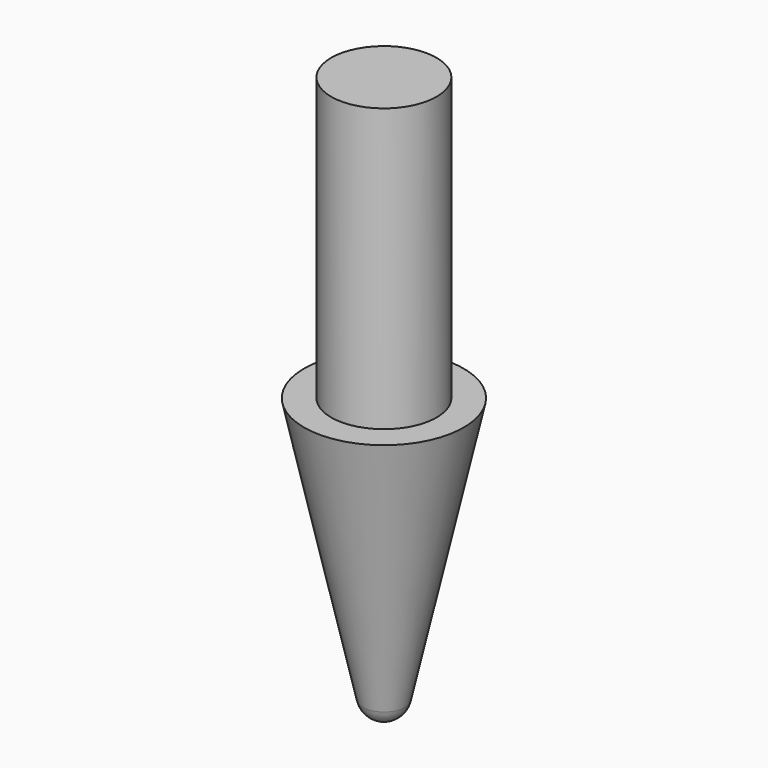
from build123d import *


with BuildPart() as part:
    # Sketch128 → Revolution005 (revolve)
    with BuildSketch(Plane.XZ):
        with BuildLine():
            Line((0, 0), (-2.8, 0))
            Line((-2.8, 0), (-2.8, -15))
            Line((-2.8, -15), (-4.24, -15))
            Line((-4.24, -15), (-1.122881, -29.098268))
            ThreePointArc((-1.122881, -29.098268), (-0.720066, -29.746663), (0, -30))
            Line((0, -30), (0, 0))
        make_face()
    revolve(axis=Axis((0, 0, 0), (0, 0, 1)))


with BuildPart() as part_1:
    # Body032 placement: moved
    add(part.part.moved(Location((0, 0, -65))))


solid = part_1.part
